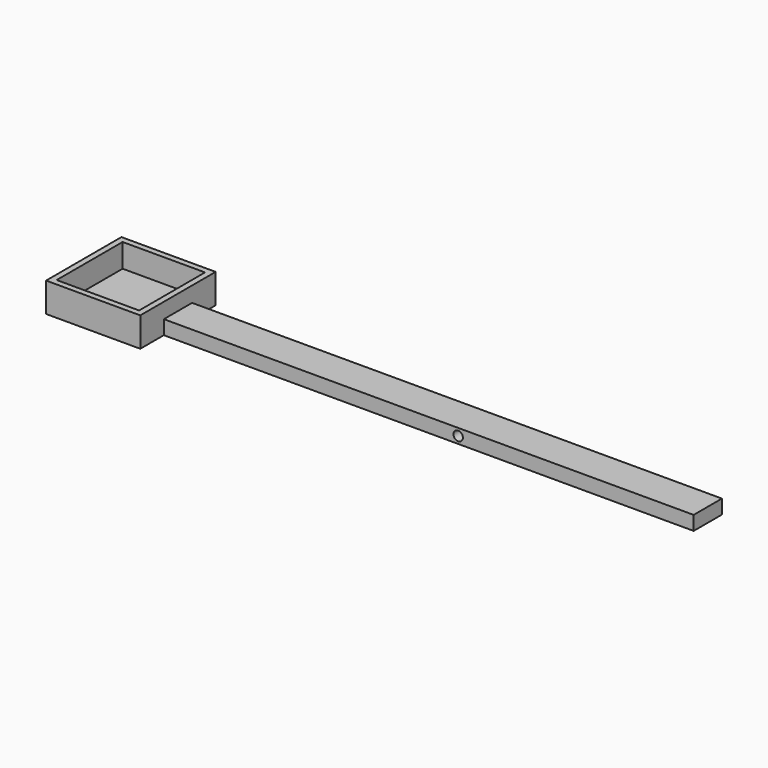
from build123d import *

# Parameters (mm, degrees)
F0_W     = 450
F0_H     = 30
F1_DEPTH = 12
F0_W_2   = 70
F0_H_2   = 70
F2_DEPTH = 25
F3_DEPTH = 5
F5_D     = 8


with BuildPart() as f1:
    # F0 (on Top) → F1 (new body)
    with BuildSketch(Plane.XY):
        with Locations((161.972634, -10.640169)):
            Rectangle(F0_W, F0_H)
    extrude(amount=F1_DEPTH)

    # F0 (on Top) → F2 (join)
    with BuildSketch(Plane.XY):
        Polygon((-63.027366, 29.359831), (-143.027366, 29.359831), (-143.027366, -50.640169), (-63.027366, -50.640169), (-63.027366, -25.640169), (-63.027366, 4.359831), align=None)
        with Locations((-103.027366, -10.640169)):
            Rectangle(F0_W_2, F0_H_2, mode=Mode.SUBTRACT)
    extrude(amount=F2_DEPTH)

    # F0 (on Top) → F3 (join)
    with BuildSketch(Plane.XY):
        with Locations((-103.027366, -10.640169)):
            Rectangle(F0_W_2, F0_H_2)
    extrude(amount=F3_DEPTH)

    # F5 (through all)
    with Locations(Plane.XZ.offset(25.640169)):
        with Locations((186.972634, 6)):
            Hole(F5_D / 2)


solid = f1.part
